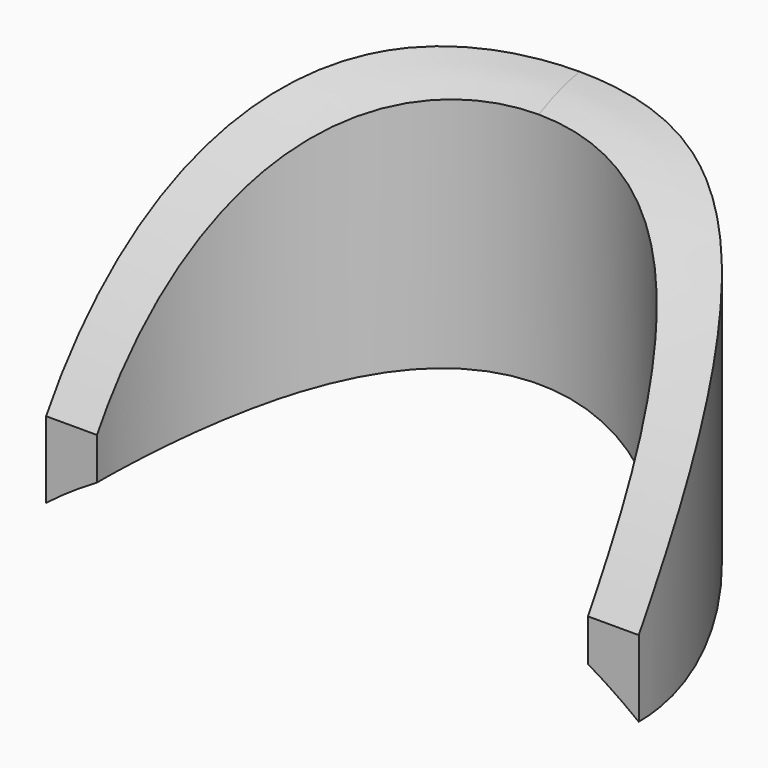
from build123d import *

# Parameters (mm, degrees)
F1_DEPTH      = 25
F2_W          = 38.0999911882
F2_H          = 25
F3_DEPTH      = 29.0380437433
F5_DEPTH      = 11.6510001
F5_DEPTH_BACK = 11.6510001


with BuildPart() as f1:
    # F0 (on Front) → F1 (new body)
    with BuildSketch(Plane.XZ):
        with BuildLine():
            ThreePointArc((-19.0499955941, 0.0129562567), (0, 19.05), (19.0499955941, 0.0129562567))
            Line((19.0499955941, 0.0129562567), (19.0499955941, 29.05))
            Line((19.0499955941, 29.05), (-19.0499955941, 29.05))
            Line((-19.0499955941, 29.05), (-19.0499955941, 0.0129562567))
        make_face()
    extrude(amount=F1_DEPTH)

    # F2 (on face) → F3 (cut, through all)
    with BuildSketch(Plane.XY.offset(29.05)):
        with Locations((0, -12.5)):
            Rectangle(F2_W, F2_H)
        with BuildLine():
            ThreePointArc((-11.65, -15.9987397492), (0, -4.3487397492), (11.65, -15.9987397492))
            Line((11.65, -15.9987397492), (9.6499996489, -15.9987397492))
            ThreePointArc((9.6499996489, -15.9987397492), (0, -6.3487401003), (-9.6499996489, -15.9987397492))
            Line((-9.6499996489, -15.9987397492), (-11.65, -15.9987397492))
        make_face(mode=Mode.SUBTRACT)
    extrude(amount=-F3_DEPTH, mode=Mode.SUBTRACT)

    # F4 (on Right) → F5 (cut, two sides)
    with BuildSketch(Plane.YZ) as f5_sk:
        with BuildLine():
            Line((-15.9987397492, 29.05), (-15.9987397492, 18.0724914994))
            add(Edge.make_bspline(
                [(-15.9987397492, 18.0724914994), (-13.4661328048, 22.3090033978), (-8.5014579818, 28.4231342375), (-4.3487397492, 29.05)],
                knots=[0, 0, 0, 0, 16.0071294391, 16.0071294391, 16.0071294391, 16.0071294391], degree=3))
            Line((-4.3487397492, 29.05), (-15.9987397492, 29.05))
        make_face()
    extrude(amount=-F5_DEPTH, mode=Mode.SUBTRACT)
    extrude(f5_sk.sketch, amount=F5_DEPTH_BACK, mode=Mode.SUBTRACT)


solid = f1.part
